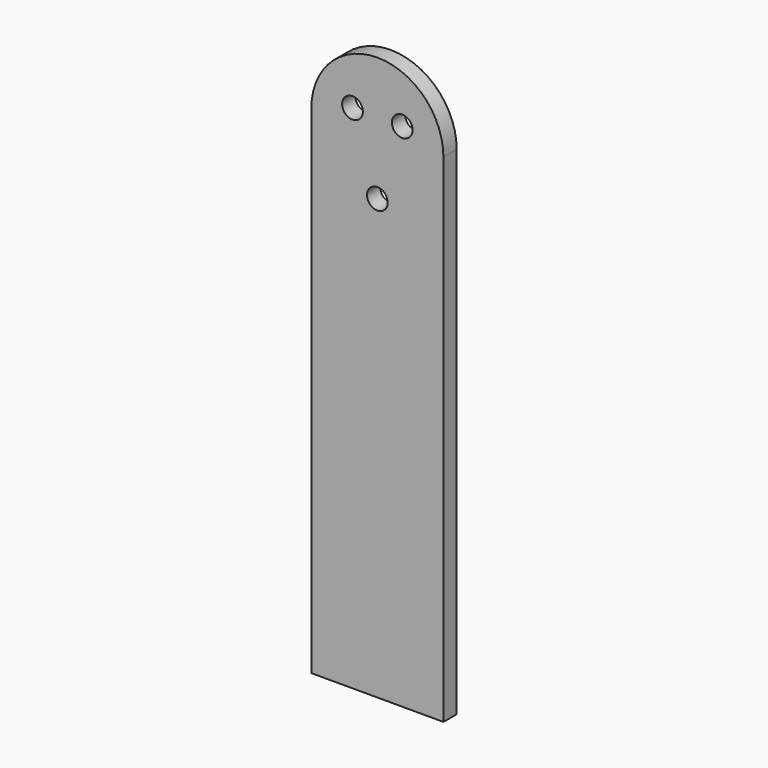
from build123d import *

# Parameters (mm, degrees)
F0_R     = 1.25
F1_DEPTH = 1


with BuildPart() as f1:
    # F0 (on Front) → F1 (new body, symmetric)
    with BuildSketch(Plane.XZ):
        with BuildLine():
            Line((-7.965, 30), (-7.965, -30))
            Line((-7.965, -30), (7.965, -30))
            Line((7.965, -30), (7.965, 30))
            ThreePointArc((7.965, 30), (0, 37.965), (-7.965, 30))
        make_face()
        with Locations((-3, 31.640445)):
            Circle(F0_R, mode=Mode.SUBTRACT)
        with Locations((0, 22.965)):
            Circle(F0_R, mode=Mode.SUBTRACT)
        with Locations((3, 31.640445)):
            Circle(F0_R, mode=Mode.SUBTRACT)
    extrude(amount=F1_DEPTH, both=True)


solid = f1.part
